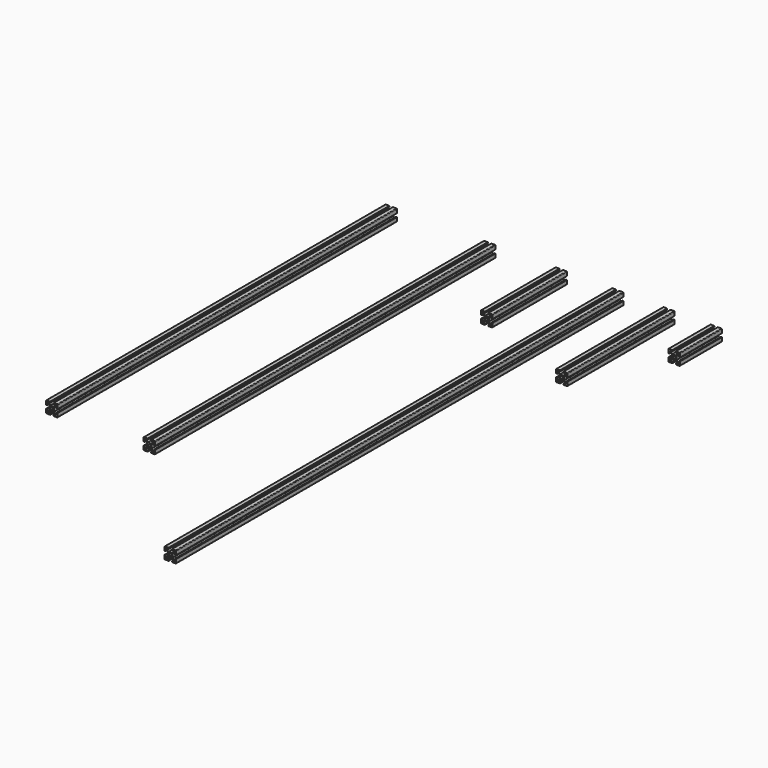
from build123d import *

# Parameters (mm, degrees)
F0_R      = 2.1
F1_DEPTH  = 960
F2_DEPTH  = 230
F4_DEPTH  = 160
F5_DEPTH  = 90
F8_DEPTH  = 730
F10_DEPTH = 728


with BuildPart() as f1:
    # F0 (on Front) → F1 (new body)
    with BuildSketch(Plane.XZ):
        with BuildLine():
            ThreePointArc((10, 9), (9.707107, 9.707107), (9, 10))
            Line((9, 10), (3, 10))
            Line((3, 10), (3, 8))
            Line((3, 8), (6.93934, 8))
            Line((6.93934, 8), (2.93934, 4))
            Line((2.93934, 4), (-2.93934, 4))
            Line((-2.93934, 4), (-6.93934, 8))
            Line((-6.93934, 8), (-3, 8))
            Line((-3, 8), (-3, 10))
            Line((-3, 10), (-9, 10))
            ThreePointArc((-9, 10), (-9.707107, 9.707107), (-10, 9))
            Line((-10, 9), (-10, 3))
            Line((-10, 3), (-8, 3))
            Line((-8, 3), (-8, 6.93934))
            Line((-8, 6.93934), (-4, 2.93934))
            Line((-4, 2.93934), (-4, -2.93934))
            Line((-4, -2.93934), (-8, -6.93934))
            Line((-8, -6.93934), (-8, -3))
            Line((-8, -3), (-10, -3))
            Line((-10, -3), (-10, -9))
            ThreePointArc((-10, -9), (-9.707107, -9.707107), (-9, -10))
            Line((-9, -10), (-3, -10))
            Line((-3, -10), (-3, -8))
            Line((-3, -8), (-6.93934, -8))
            Line((-6.93934, -8), (-2.93934, -4))
            Line((-2.93934, -4), (2.93934, -4))
            Line((2.93934, -4), (6.93934, -8))
            Line((6.93934, -8), (3, -8))
            Line((3, -8), (3, -10))
            Line((3, -10), (9, -10))
            ThreePointArc((9, -10), (9.707107, -9.707107), (10, -9))
            Line((10, -9), (10, -3))
            Line((10, -3), (8, -3))
            Line((8, -3), (8, -6.93934))
            Line((8, -6.93934), (4, -2.93934))
            Line((4, -2.93934), (4, 2.93934))
            Line((4, 2.93934), (8, 6.93934))
            Line((8, 6.93934), (8, 3))
            Line((8, 3), (10, 3))
            Line((10, 3), (10, 9))
        make_face()
        Circle(F0_R, mode=Mode.SUBTRACT)
    extrude(amount=F1_DEPTH)


with BuildPart() as f2:
    # F0 (on Front) → F2 (new body)
    with BuildSketch(Plane.XZ):
        with BuildLine():
            ThreePointArc((10, 9), (9.707107, 9.707107), (9, 10))
            Line((9, 10), (3, 10))
            Line((3, 10), (3, 8))
            Line((3, 8), (6.93934, 8))
            Line((6.93934, 8), (2.93934, 4))
            Line((2.93934, 4), (-2.93934, 4))
            Line((-2.93934, 4), (-6.93934, 8))
            Line((-6.93934, 8), (-3, 8))
            Line((-3, 8), (-3, 10))
            Line((-3, 10), (-9, 10))
            ThreePointArc((-9, 10), (-9.707107, 9.707107), (-10, 9))
            Line((-10, 9), (-10, 3))
            Line((-10, 3), (-8, 3))
            Line((-8, 3), (-8, 6.93934))
            Line((-8, 6.93934), (-4, 2.93934))
            Line((-4, 2.93934), (-4, -2.93934))
            Line((-4, -2.93934), (-8, -6.93934))
            Line((-8, -6.93934), (-8, -3))
            Line((-8, -3), (-10, -3))
            Line((-10, -3), (-10, -9))
            ThreePointArc((-10, -9), (-9.707107, -9.707107), (-9, -10))
            Line((-9, -10), (-3, -10))
            Line((-3, -10), (-3, -8))
            Line((-3, -8), (-6.93934, -8))
            Line((-6.93934, -8), (-2.93934, -4))
            Line((-2.93934, -4), (2.93934, -4))
            Line((2.93934, -4), (6.93934, -8))
            Line((6.93934, -8), (3, -8))
            Line((3, -8), (3, -10))
            Line((3, -10), (9, -10))
            ThreePointArc((9, -10), (9.707107, -9.707107), (10, -9))
            Line((10, -9), (10, -3))
            Line((10, -3), (8, -3))
            Line((8, -3), (8, -6.93934))
            Line((8, -6.93934), (4, -2.93934))
            Line((4, -2.93934), (4, 2.93934))
            Line((4, 2.93934), (8, 6.93934))
            Line((8, 6.93934), (8, 3))
            Line((8, 3), (10, 3))
            Line((10, 3), (10, 9))
        make_face()
        Circle(F0_R, mode=Mode.SUBTRACT)
    extrude(amount=F2_DEPTH)


with BuildPart() as f2_1:
    # F3: moved
    add(f2.part.moved(Location((88, 0, 0))))


with BuildPart() as f4:
    # F0 (on Front) → F4 (new body)
    with BuildSketch(Plane.XZ):
        with BuildLine():
            ThreePointArc((10, 9), (9.707107, 9.707107), (9, 10))
            Line((9, 10), (3, 10))
            Line((3, 10), (3, 8))
            Line((3, 8), (6.93934, 8))
            Line((6.93934, 8), (2.93934, 4))
            Line((2.93934, 4), (-2.93934, 4))
            Line((-2.93934, 4), (-6.93934, 8))
            Line((-6.93934, 8), (-3, 8))
            Line((-3, 8), (-3, 10))
            Line((-3, 10), (-9, 10))
            ThreePointArc((-9, 10), (-9.707107, 9.707107), (-10, 9))
            Line((-10, 9), (-10, 3))
            Line((-10, 3), (-8, 3))
            Line((-8, 3), (-8, 6.93934))
            Line((-8, 6.93934), (-4, 2.93934))
            Line((-4, 2.93934), (-4, -2.93934))
            Line((-4, -2.93934), (-8, -6.93934))
            Line((-8, -6.93934), (-8, -3))
            Line((-8, -3), (-10, -3))
            Line((-10, -3), (-10, -9))
            ThreePointArc((-10, -9), (-9.707107, -9.707107), (-9, -10))
            Line((-9, -10), (-3, -10))
            Line((-3, -10), (-3, -8))
            Line((-3, -8), (-6.93934, -8))
            Line((-6.93934, -8), (-2.93934, -4))
            Line((-2.93934, -4), (2.93934, -4))
            Line((2.93934, -4), (6.93934, -8))
            Line((6.93934, -8), (3, -8))
            Line((3, -8), (3, -10))
            Line((3, -10), (9, -10))
            ThreePointArc((9, -10), (9.707107, -9.707107), (10, -9))
            Line((10, -9), (10, -3))
            Line((10, -3), (8, -3))
            Line((8, -3), (8, -6.93934))
            Line((8, -6.93934), (4, -2.93934))
            Line((4, -2.93934), (4, 2.93934))
            Line((4, 2.93934), (8, 6.93934))
            Line((8, 6.93934), (8, 3))
            Line((8, 3), (10, 3))
            Line((10, 3), (10, 9))
        make_face()
        Circle(F0_R, mode=Mode.SUBTRACT)
    extrude(amount=F4_DEPTH)


with BuildPart() as f5:
    # F0 (on Front) → F5 (new body)
    with BuildSketch(Plane.XZ):
        with BuildLine():
            ThreePointArc((10, 9), (9.707107, 9.707107), (9, 10))
            Line((9, 10), (3, 10))
            Line((3, 10), (3, 8))
            Line((3, 8), (6.93934, 8))
            Line((6.93934, 8), (2.93934, 4))
            Line((2.93934, 4), (-2.93934, 4))
            Line((-2.93934, 4), (-6.93934, 8))
            Line((-6.93934, 8), (-3, 8))
            Line((-3, 8), (-3, 10))
            Line((-3, 10), (-9, 10))
            ThreePointArc((-9, 10), (-9.707107, 9.707107), (-10, 9))
            Line((-10, 9), (-10, 3))
            Line((-10, 3), (-8, 3))
            Line((-8, 3), (-8, 6.93934))
            Line((-8, 6.93934), (-4, 2.93934))
            Line((-4, 2.93934), (-4, -2.93934))
            Line((-4, -2.93934), (-8, -6.93934))
            Line((-8, -6.93934), (-8, -3))
            Line((-8, -3), (-10, -3))
            Line((-10, -3), (-10, -9))
            ThreePointArc((-10, -9), (-9.707107, -9.707107), (-9, -10))
            Line((-9, -10), (-3, -10))
            Line((-3, -10), (-3, -8))
            Line((-3, -8), (-6.93934, -8))
            Line((-6.93934, -8), (-2.93934, -4))
            Line((-2.93934, -4), (2.93934, -4))
            Line((2.93934, -4), (6.93934, -8))
            Line((6.93934, -8), (3, -8))
            Line((3, -8), (3, -10))
            Line((3, -10), (9, -10))
            ThreePointArc((9, -10), (9.707107, -9.707107), (10, -9))
            Line((10, -9), (10, -3))
            Line((10, -3), (8, -3))
            Line((8, -3), (8, -6.93934))
            Line((8, -6.93934), (4, -2.93934))
            Line((4, -2.93934), (4, 2.93934))
            Line((4, 2.93934), (8, 6.93934))
            Line((8, 6.93934), (8, 3))
            Line((8, 3), (10, 3))
            Line((10, 3), (10, 9))
        make_face()
        Circle(F0_R, mode=Mode.SUBTRACT)
    extrude(amount=F5_DEPTH)


with BuildPart() as f5_1:
    # F6: moved
    add(f5.part.moved(Location((169, 0, 0))))


with BuildPart() as f4_1:
    # F7: moved
    add(f4.part.moved(Location((-97, 0, 0))))


with BuildPart() as f8:
    # F0 (on Front) → F8 (new body)
    with BuildSketch(Plane.XZ):
        with BuildLine():
            ThreePointArc((10, 9), (9.707107, 9.707107), (9, 10))
            Line((9, 10), (3, 10))
            Line((3, 10), (3, 8))
            Line((3, 8), (6.93934, 8))
            Line((6.93934, 8), (2.93934, 4))
            Line((2.93934, 4), (-2.93934, 4))
            Line((-2.93934, 4), (-6.93934, 8))
            Line((-6.93934, 8), (-3, 8))
            Line((-3, 8), (-3, 10))
            Line((-3, 10), (-9, 10))
            ThreePointArc((-9, 10), (-9.707107, 9.707107), (-10, 9))
            Line((-10, 9), (-10, 3))
            Line((-10, 3), (-8, 3))
            Line((-8, 3), (-8, 6.93934))
            Line((-8, 6.93934), (-4, 2.93934))
            Line((-4, 2.93934), (-4, -2.93934))
            Line((-4, -2.93934), (-8, -6.93934))
            Line((-8, -6.93934), (-8, -3))
            Line((-8, -3), (-10, -3))
            Line((-10, -3), (-10, -9))
            ThreePointArc((-10, -9), (-9.707107, -9.707107), (-9, -10))
            Line((-9, -10), (-3, -10))
            Line((-3, -10), (-3, -8))
            Line((-3, -8), (-6.93934, -8))
            Line((-6.93934, -8), (-2.93934, -4))
            Line((-2.93934, -4), (2.93934, -4))
            Line((2.93934, -4), (6.93934, -8))
            Line((6.93934, -8), (3, -8))
            Line((3, -8), (3, -10))
            Line((3, -10), (9, -10))
            ThreePointArc((9, -10), (9.707107, -9.707107), (10, -9))
            Line((10, -9), (10, -3))
            Line((10, -3), (8, -3))
            Line((8, -3), (8, -6.93934))
            Line((8, -6.93934), (4, -2.93934))
            Line((4, -2.93934), (4, 2.93934))
            Line((4, 2.93934), (8, 6.93934))
            Line((8, 6.93934), (8, 3))
            Line((8, 3), (10, 3))
            Line((10, 3), (10, 9))
        make_face()
        Circle(F0_R, mode=Mode.SUBTRACT)
    extrude(amount=F8_DEPTH)


with BuildPart() as f8_1:
    # F9: moved
    add(f8.part.moved(Location((-220, 0, 0))))


with BuildPart() as f10:
    # F0 (on Front) → F10 (new body)
    with BuildSketch(Plane.XZ):
        with BuildLine():
            ThreePointArc((10, 9), (9.707107, 9.707107), (9, 10))
            Line((9, 10), (3, 10))
            Line((3, 10), (3, 8))
            Line((3, 8), (6.93934, 8))
            Line((6.93934, 8), (2.93934, 4))
            Line((2.93934, 4), (-2.93934, 4))
            Line((-2.93934, 4), (-6.93934, 8))
            Line((-6.93934, 8), (-3, 8))
            Line((-3, 8), (-3, 10))
            Line((-3, 10), (-9, 10))
            ThreePointArc((-9, 10), (-9.707107, 9.707107), (-10, 9))
            Line((-10, 9), (-10, 3))
            Line((-10, 3), (-8, 3))
            Line((-8, 3), (-8, 6.93934))
            Line((-8, 6.93934), (-4, 2.93934))
            Line((-4, 2.93934), (-4, -2.93934))
            Line((-4, -2.93934), (-8, -6.93934))
            Line((-8, -6.93934), (-8, -3))
            Line((-8, -3), (-10, -3))
            Line((-10, -3), (-10, -9))
            ThreePointArc((-10, -9), (-9.707107, -9.707107), (-9, -10))
            Line((-9, -10), (-3, -10))
            Line((-3, -10), (-3, -8))
            Line((-3, -8), (-6.93934, -8))
            Line((-6.93934, -8), (-2.93934, -4))
            Line((-2.93934, -4), (2.93934, -4))
            Line((2.93934, -4), (6.93934, -8))
            Line((6.93934, -8), (3, -8))
            Line((3, -8), (3, -10))
            Line((3, -10), (9, -10))
            ThreePointArc((9, -10), (9.707107, -9.707107), (10, -9))
            Line((10, -9), (10, -3))
            Line((10, -3), (8, -3))
            Line((8, -3), (8, -6.93934))
            Line((8, -6.93934), (4, -2.93934))
            Line((4, -2.93934), (4, 2.93934))
            Line((4, 2.93934), (8, 6.93934))
            Line((8, 6.93934), (8, 3))
            Line((8, 3), (10, 3))
            Line((10, 3), (10, 9))
        make_face()
        Circle(F0_R, mode=Mode.SUBTRACT)
    extrude(amount=F10_DEPTH)


with BuildPart() as f10_1:
    # F11: moved
    add(f10.part.moved(Location((-389, 0, 0))))


solid = Compound([f1.part, f2_1.part, f5_1.part, f4_1.part, f8_1.part, f10_1.part])
